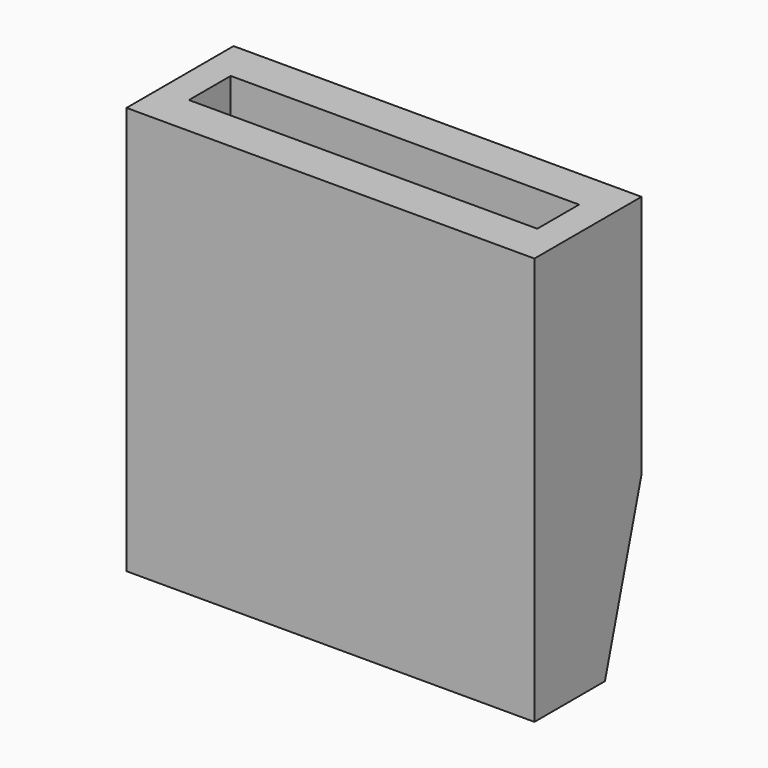
from build123d import *

# Parameters (mm, degrees)
F0_W     = 31.75
F0_H     = 10.414
F1_DEPTH = 31.75
F2_W     = 27.1145
F2_H     = 4.064
F3_DEPTH = 28.575
F4_SIZE2 = 3.556
F4_SIZE  = 12.7
F5_W     = 25.4
F5_H     = 9.839699956
F6_DEPTH = 2.5146


with BuildPart() as f1:
    # F0 (on Top) → F1 (new body)
    with BuildSketch(Plane.XY):
        Rectangle(F0_W, F0_H)
    extrude(amount=F1_DEPTH)

    # F2 (on face) → F3 (cut)
    with BuildSketch(Plane.XY.offset(31.75)):
        Rectangle(F2_W, F2_H)
    extrude(amount=-F3_DEPTH, mode=Mode.SUBTRACT)

    # F4
    f4_edges = [f1.edges().sort_by_distance(p)[0] for p in [
        (0, 5.207, 0),
    ]]
    f4_side = f1.faces().sort_by_distance((0, 5.207, 15.875))[0]
    chamfer(f4_edges, length=F4_SIZE, length2=F4_SIZE2, reference=f4_side)

    # F5 (on face) → F6 (cut)
    with BuildSketch(Plane(origin=(0, 1.5309718101, -0.4286721068), x_dir=(-1, 0, 0), z_dir=(0, 0.9629640197, -0.2696299255))):
        with Locations((0.0492152758, 6.8765128963)):
            Rectangle(F5_W, F5_H)
    extrude(amount=-F6_DEPTH, mode=Mode.SUBTRACT)


solid = f1.part
